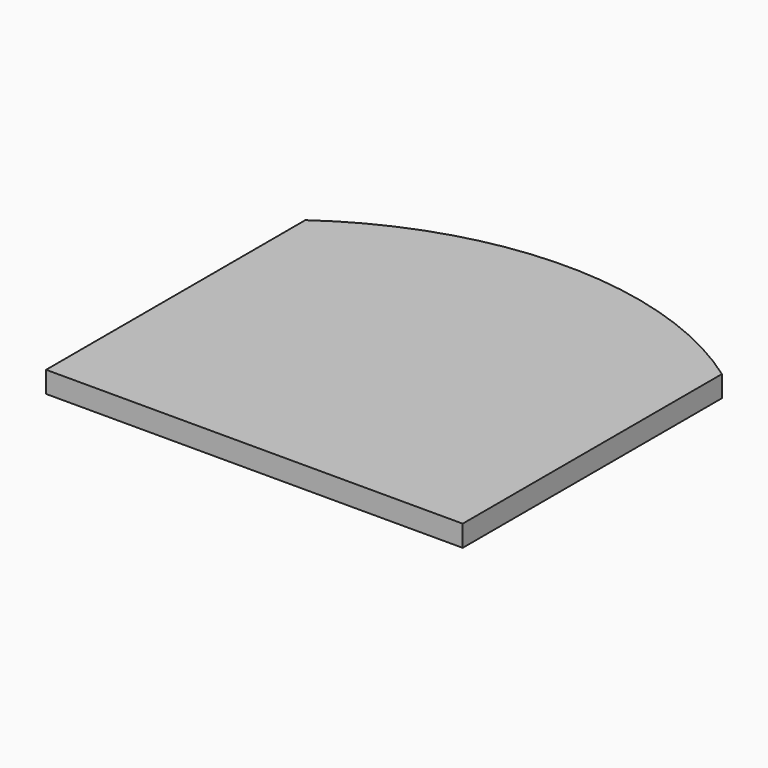
from build123d import *

# Parameters (mm, degrees)
F0_W     = 49.661384
F0_H     = 38.625516
F1_DEPTH = 2.54


with BuildPart() as f1:
    # F0 (on Top) → F1 (new body)
    with BuildSketch(Plane.XY):
        Rectangle(F0_W, F0_H)
        with BuildLine():
            Line((-24.830692, 19.312758), (24.830692, 19.312758))
            ThreePointArc((24.830692, 19.312758), (0, 27.260959), (-24.830692, 19.312758))
        make_face()
    extrude(amount=F1_DEPTH)


solid = f1.part
